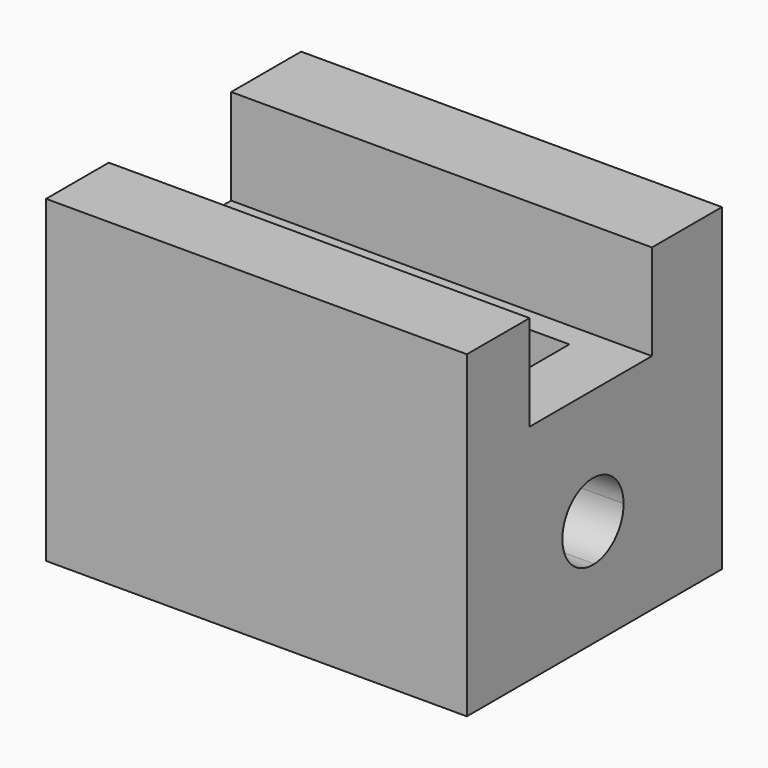
from build123d import *

# Parameters (mm, degrees)
F0_W     = 66
F0_H     = 50
F1_DEPTH = 50
F2_W     = 24
F2_H     = 15
F3_DEPTH = 66
F6_DEPTH = 66
F7_W     = 16
F7_H     = 16
F8_DEPTH = 50


with BuildPart() as f1:
    # F0 (on Top) → F1 (new body)
    with BuildSketch(Plane.XY):
        with Locations((-18.661186, 12.861842)):
            Rectangle(F0_W, F0_H)
    extrude(amount=F1_DEPTH)

    # F2 (on face) → F3 (cut)
    with BuildSketch(Plane.YZ.offset(14.338814)):
        with Locations((12.148024, 42.5)):
            Rectangle(F2_W, F2_H)
    extrude(amount=-F3_DEPTH, mode=Mode.SUBTRACT)

    # F5 (on face) → F6 (cut)
    with BuildSketch(Plane.YZ.offset(14.338814)):
        with BuildLine():
            ThreePointArc((12.861842, 10.881519), (16.922608, 12.732394), (18.582238, 16.875001))
            ThreePointArc((18.582238, 16.875001), (8.241868, 21.017607), (12.861842, 10.881519))
        make_face()
    extrude(amount=-F6_DEPTH, mode=Mode.SUBTRACT)

    # F7 (on face) → F8 (cut)
    with BuildSketch(Plane.XY.offset(35)):
        with Locations((-33.807651, 12.345139)):
            Rectangle(F7_W, F7_H)
        with Locations((-3.504306, 12.252815)):
            Rectangle(F7_W, F7_H)
    extrude(amount=-F8_DEPTH, mode=Mode.SUBTRACT)


solid = f1.part
